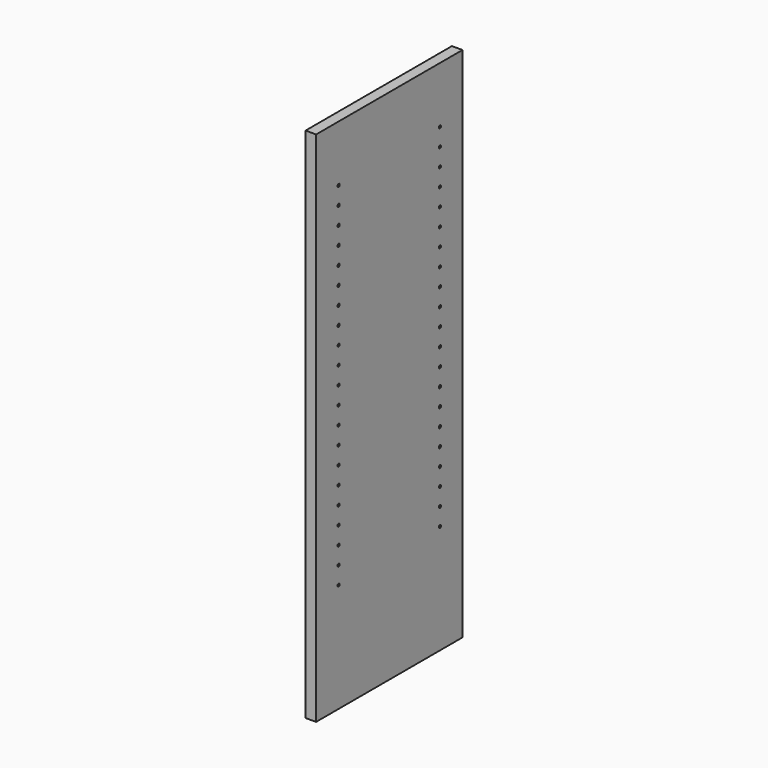
from build123d import *

# Parameters (mm, degrees)
F0_W     = 330.2
F0_H     = 933.45
F1_DEPTH = 19.05
F3_D     = 5.0038
F3_DEPTH = 14.224
F3_TIP   = 1.5032931827


with BuildPart() as f1:
    # F0 (on Right) → F1 (new body)
    with BuildSketch(Plane.YZ):
        Rectangle(F0_W, F0_H)
    extrude(amount=F1_DEPTH)

    # F3
    with Locations(Plane.YZ.offset(19.05)):
        with Locations((-114.3, 365.125), (-114.3, 333.375), (-114.3, 301.625), (-114.3, 269.875), (-114.3, 238.125), (-114.3, 206.375), (-114.3, 174.625), (-114.3, 142.875), (-114.3, 111.125), (-114.3, 79.375), (-114.3, 47.625), (-114.3, 15.875), (-114.3, -15.875), (-114.3, -79.375), (-114.3, -47.625), (-114.3, -111.125), (-114.3, -174.625), (-114.3, -142.875), (-114.3, -206.375), (-114.3, -238.125), (-114.3, -269.875), (114.3, -269.875), (114.3, -238.125), (114.3, -206.375), (114.3, -174.625), (114.3, -142.875), (114.3, -111.125), (114.3, -79.375), (114.3, -47.625), (114.3, -15.875), (114.3, 15.875), (114.3, 47.625), (114.3, 79.375), (114.3, 111.125), (114.3, 142.875), (114.3, 174.625), (114.3, 206.375), (114.3, 238.125), (114.3, 269.875), (114.3, 301.625), (114.3, 333.375), (114.3, 365.125), (114.3, 111.125)):
            Hole(F3_D / 2, depth=F3_DEPTH)
            with Locations((0, 0, -(F3_DEPTH + F3_TIP / 2))):  # 118° drill point
                Cone(0, F3_D / 2, F3_TIP, mode=Mode.SUBTRACT)


solid = f1.part
